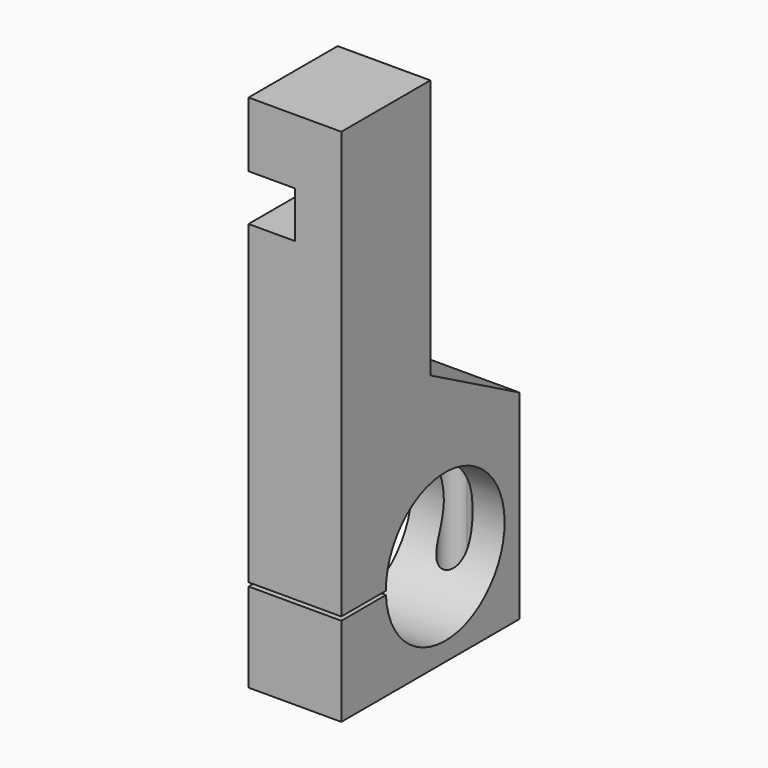
from build123d import *

# Parameters (mm, degrees)
F1_DEPTH = 25
F3_DEPTH = 50
F5_DEPTH = 60


with BuildPart() as f1:
    # F0 (on Right) → F1 (new body)
    with BuildSketch(Plane.YZ):
        with BuildLine():
            Line((-60, 0), (0, 0))
            Line((0, 0), (0, 53.749684))
            Line((0, 53.749684), (-30, 70))
            Line((-30, 70), (-30, 140))
            Line((-30, 140), (-60, 140))
            Line((-60, 140), (-60, 25))
            Line((-60, 25), (-45, 25))
            ThreePointArc((-45, 25), (-5.006255, 25.500156), (-44.974984, 24))
            Line((-44.974984, 24), (-60, 24))
            Line((-60, 24), (-60, 12))
            Line((-60, 12), (-60, 0))
        make_face()
    extrude(amount=F1_DEPTH)

    # F2 (on Top) → F3 (cut)
    with BuildSketch(Plane.XY):
        with BuildLine():
            ThreePointArc((12.5, -2), (9.671573, -8.828427), (16.5, -6))
            ThreePointArc((16.5, -6), (15.328427, -3.171573), (12.5, -2))
        make_face()
    extrude(amount=F3_DEPTH, mode=Mode.SUBTRACT)

    # F4 (on Front) → F5 (cut)
    with BuildSketch(Plane.XZ):
        Polygon((-7.744254, 110), (0, 110), (12.5, 110), (12.5, 122.5), (-7.744254, 122.5), align=None)
    extrude(amount=F5_DEPTH, mode=Mode.SUBTRACT)


solid = f1.part
